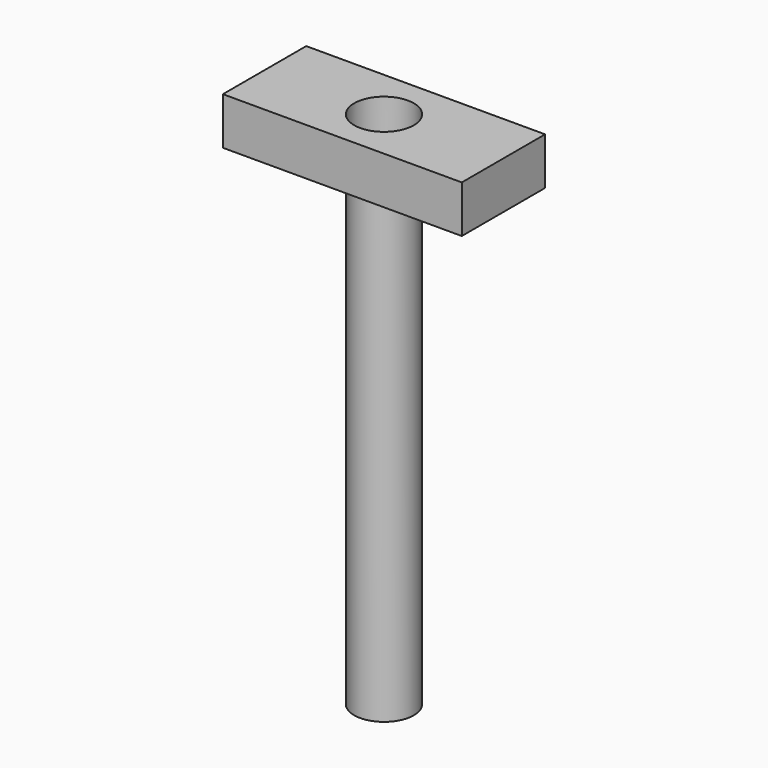
from build123d import *

# Parameters (mm, degrees)
F0_R     = 32.066649
F1_DEPTH = 508
F2_W     = 256.982982
F2_H     = 112.01822
F2_R     = 32.066649
F3_DEPTH = 50.8


with BuildPart() as f1:
    # F0 (on Top) → F1 (new body)
    with BuildSketch(Plane.XY):
        Circle(F0_R)
    extrude(amount=F1_DEPTH)


with BuildPart() as f3:
    # F2 (on face) → F3 (new body)
    with BuildSketch(Plane.XY.offset(508)):
        Rectangle(F2_W, F2_H)
        Circle(F2_R, mode=Mode.SUBTRACT)
    extrude(amount=F3_DEPTH)


solid = Compound([f1.part, f3.part])
